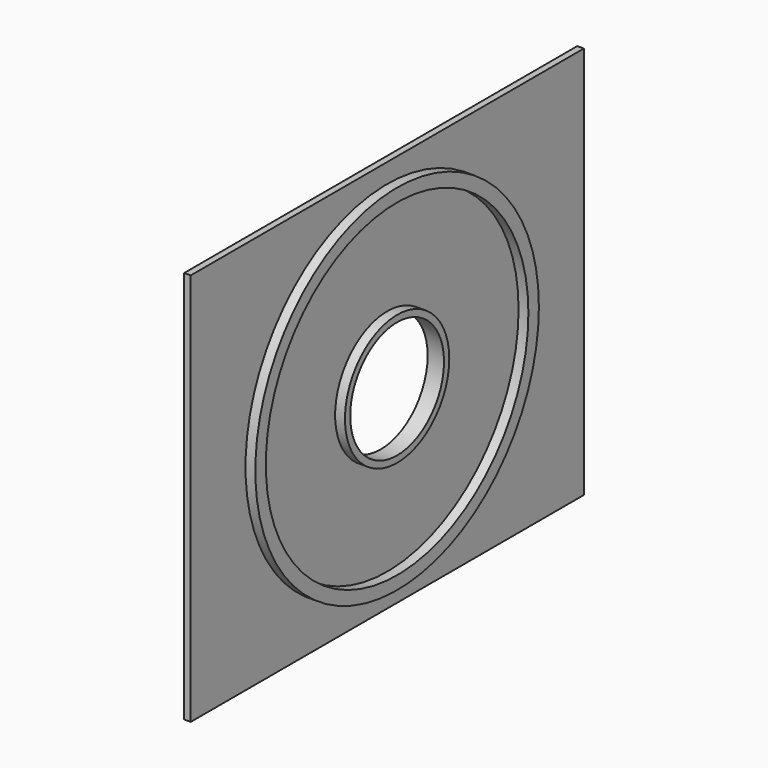
from build123d import *

# Parameters (mm, degrees)
SKETCH012_W   = 150
SKETCH012_H   = 120
SKETCH012_R   = 19.9
PAD004_DEPTH  = 2
SKETCH013_R   = 19.9
SKETCH013_R_2 = 17.9
PAD005_DEPTH  = 5
SKETCH014_R   = 54.1
SKETCH014_R_2 = 50.1
PAD006_DEPTH  = 5


with BuildPart() as part:
    # Sketch012 → Pad004 (new body)
    with BuildSketch(Plane.YZ):
        Rectangle(SKETCH012_W, SKETCH012_H)
        Circle(SKETCH012_R, mode=Mode.SUBTRACT)
    extrude(amount=PAD004_DEPTH)

    # Sketch013 → Pad005 (join)
    with BuildSketch(Plane.YZ):
        Circle(SKETCH013_R)
        Circle(SKETCH013_R_2, mode=Mode.SUBTRACT)
    extrude(amount=PAD005_DEPTH)

    # Sketch014 → Pad006 (join)
    with BuildSketch(Plane.YZ):
        Circle(SKETCH014_R)
        Circle(SKETCH014_R_2, mode=Mode.SUBTRACT)
    extrude(amount=PAD006_DEPTH)


solid = part.part
